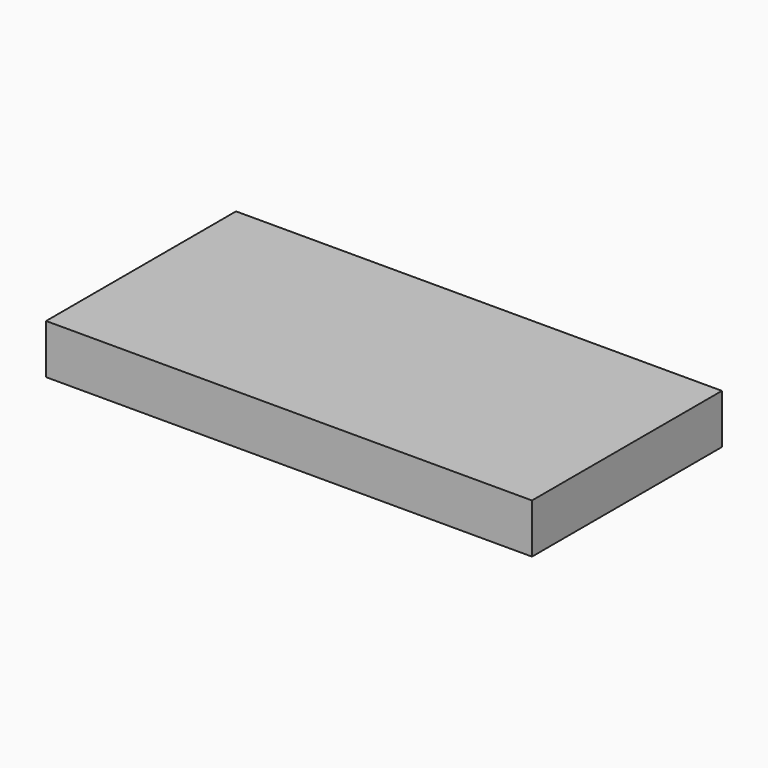
from build123d import *

# Parameters (mm, degrees)
F1_DEPTH = 25.4


with BuildPart() as f1:
    # F0 (on Front) → F1 (new body)
    with BuildSketch(Plane.XZ):
        with BuildLine():
            Line((13.009113, 37.339624), (64.99283, 37.339624))
            Line((64.99283, 37.339624), (64.99283, 42.631656))
            Line((64.99283, 42.631656), (13.009113, 42.631656))
            add(Edge.make_bspline(
                [(13.009113, 40.170065), (13.066271, 40.952454), (13.067117, 41.772386), (13.009113, 42.631656)],
                knots=[122.408719, 122.408719, 122.408719, 122.408719, 125.186425, 125.186425, 125.186425, 125.186425], degree=3))
            Line((13.009113, 40.170065), (13.009113, 37.339624))
        make_face()
        with BuildLine():
            Line((13.009113, 42.631656), (13.009113, 40.170065))
            add(Edge.make_bspline(
                [(13.009113, 40.170065), (13.066271, 40.952454), (13.067117, 41.772386), (13.009113, 42.631656)],
                knots=[122.408719, 122.408719, 122.408719, 122.408719, 125.186425, 125.186425, 125.186425, 125.186425], degree=3))
        make_face()
    extrude(amount=F1_DEPTH)


solid = f1.part
